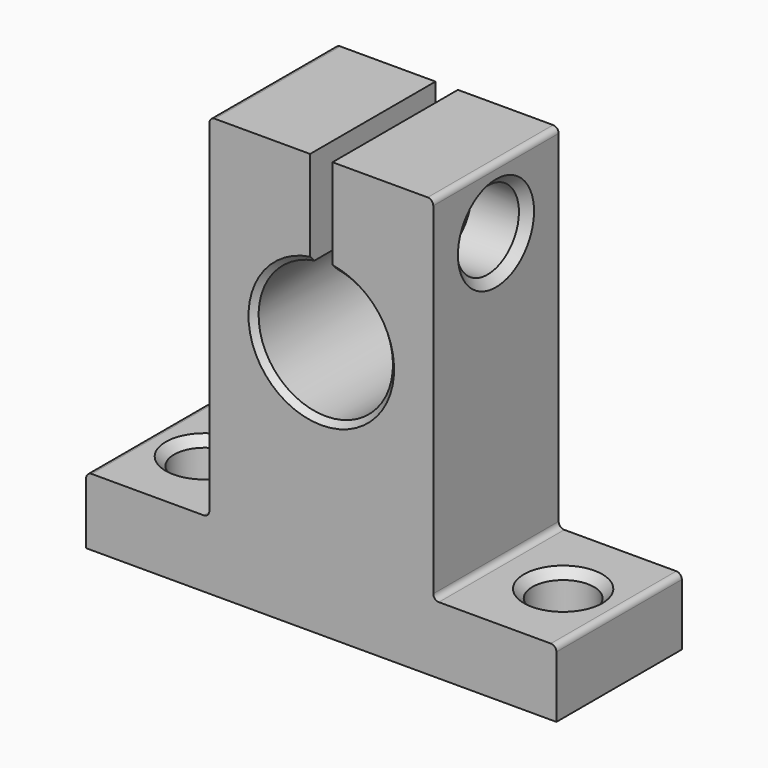
from build123d import *

# Parameters (mm, degrees)
PAD_DEPTH       = 7
SKETCH001_R     = 2.75
POCKET_DEPTH    = 37.501
SKETCH002_R     = 3.5
POCKET001_DEPTH = 5
SKETCH003_R     = 1.5
POCKET002_DEPTH = 26.001
FILLET_R        = 0.5
CHAMFER_SIZE    = 0.75
CHAMFER001_SIZE = 0.75
CHAMFER002_SIZE = 0.75
CHAMFER003_SIZE = 0.5


with BuildPart() as part:
    # Sketch → Pad (new body, symmetric)
    with BuildSketch(Plane.XZ):
        with BuildLine():
            Line((-21, 0), (21, 0))
            Line((21, 0), (21, 6))
            Line((21, 6), (10, 6))
            Line((10, 6), (10, 37.5))
            Line((10, 37.5), (1, 37.5))
            Line((1, 37.5), (1, 28.91608))
            ThreePointArc((-1, 28.91608), (0, 17), (1, 28.91608))
            Line((-1, 37.5), (-1, 28.91608))
            Line((-1, 37.5), (-10, 37.5))
            Line((-10, 37.5), (-10, 6))
            Line((-10, 6), (-21, 6))
            Line((-21, 6), (-21, 0))
        make_face()
    extrude(amount=PAD_DEPTH, both=True)

    # Sketch001 → Pocket (cut, through all)
    with BuildSketch(Plane(origin=(0, 0, 0), x_dir=(1, 0, 0), z_dir=(0, 0, -1))):
        with Locations((16, 0)):
            Circle(SKETCH001_R)
        with Locations((-16, 0)):
            Circle(SKETCH001_R)
    extrude(amount=-POCKET_DEPTH, mode=Mode.SUBTRACT)

    # Sketch002 → Pocket001 (cut)
    with BuildSketch(Plane(origin=(10, 0, 0), x_dir=(0, 0, 1), z_dir=(1, 0, 0))):
        with Locations((32, 0)):
            Circle(SKETCH002_R)
    extrude(amount=-POCKET001_DEPTH, mode=Mode.SUBTRACT)

    # Sketch003 → Pocket002 (cut, through all)
    with BuildSketch(Plane(origin=(5, 0, 0), x_dir=(0, 0, 1), z_dir=(1, 0, 0))):
        with Locations((32, 0)):
            Circle(SKETCH003_R)
    extrude(amount=-POCKET002_DEPTH, mode=Mode.SUBTRACT)

    # Fillet
    fillet_edges = [part.edges().sort_by_distance(p)[0] for p in [
        (21, 0, 6),
        (10, 0, 6),
        (10, 0, 37.5),
        (-10, 0, 37.5),
        (-10, 0, 6),
        (-21, 0, 6),
    ]]
    fillet(fillet_edges, radius=FILLET_R)

    # Chamfer
    chamfer_edges = [part.edges().sort_by_distance(p)[0] for p in [
        (13.25, 0, 6),
        (-18.75, 0, 6),
    ]]
    chamfer(chamfer_edges, length=CHAMFER_SIZE)

    # Chamfer001
    chamfer001_edges = [part.edges().sort_by_distance(p)[0] for p in [
        (10, 0, 28.5),
    ]]
    chamfer(chamfer001_edges, length=CHAMFER001_SIZE)

    # Chamfer002
    chamfer002_edges = [part.edges().sort_by_distance(p)[0] for p in [
        (-10, 0, 30.5),
    ]]
    chamfer(chamfer002_edges, length=CHAMFER002_SIZE)

    # Chamfer003
    chamfer003_edges = [part.edges().sort_by_distance(p)[0] for p in [
        (0, 7, 17),
        (0, -7, 17),
    ]]
    chamfer(chamfer003_edges, length=CHAMFER003_SIZE)


solid = part.part
